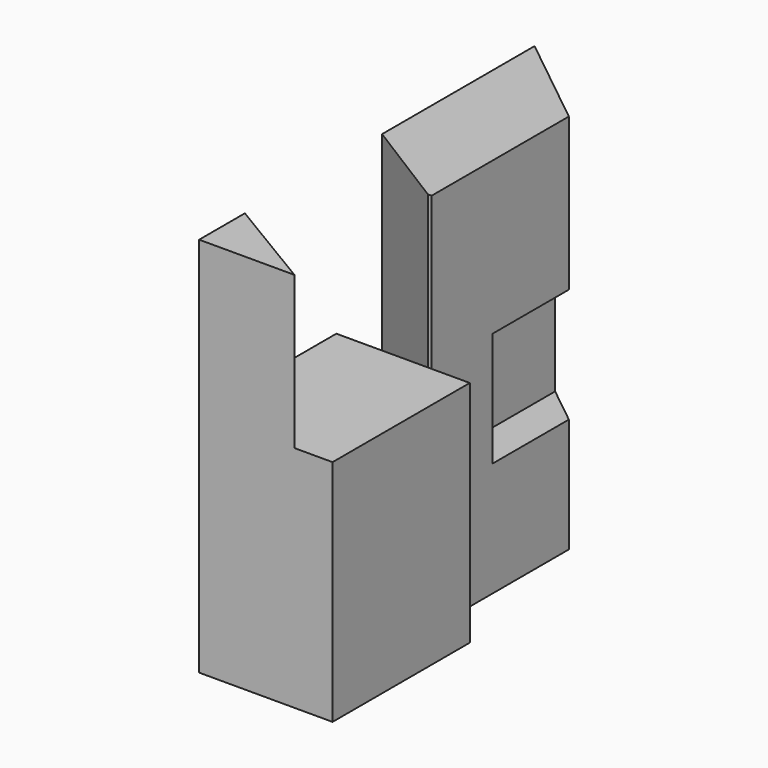
from build123d import *

# Parameters (mm, degrees)
F0_W      = 35
F0_H      = 60
F1_DEPTH  = 45
F2_W      = 25
F2_H      = 40
F2_H_2    = 60
F3_DEPTH  = 65
F4_W      = 10
F4_H      = 30
F5_DEPTH  = 45
F7_DEPTH  = 100
F9_DEPTH  = 40
F11_DEPTH = 85


with BuildPart() as f1:
    # F0 (on Front) → F1 (new body)
    with BuildSketch(Plane.XZ):
        with Locations((-17.5, 30)):
            Rectangle(F0_W, F0_H)
    extrude(amount=F1_DEPTH)

    # F2 (on face) → F3 (join)
    with BuildSketch(Plane(origin=(0, 0, 0), x_dir=(-1, 0, 0), z_dir=(0, 1, 0))):
        with Locations((22.5, 80)):
            Rectangle(F2_W, F2_H)
        with Locations((22.5, 30)):
            Rectangle(F2_W, F2_H_2)
    extrude(amount=F3_DEPTH)

    # F4 (on face) → F5 (cut)
    with BuildSketch(Plane(origin=(0, 65, 0), x_dir=(-1, 0, 0), z_dir=(0, 1, 0))):
        with Locations((15, 45)):
            Rectangle(F4_W, F4_H)
    extrude(amount=-F5_DEPTH, mode=Mode.SUBTRACT)

    # F6 (on face) → F7 (cut)
    with BuildSketch(Plane.XY.offset(100)):
        Polygon((-10, 45), (-10, 65), (-35, 65), align=None)
    extrude(amount=-F7_DEPTH, mode=Mode.SUBTRACT)

    # F8 (on face) → F9 (join)
    with BuildSketch(Plane.XY.offset(60)):
        Polygon((-35, -30), (-35, -45), (-10, -45), align=None)
    extrude(amount=F9_DEPTH)

    # F10 (on face) → F11 (cut)
    with BuildSketch(Plane.XY.offset(100)):
        Polygon((-35, 15), (-35, 0), (-11, 0), align=None)
    extrude(amount=-F11_DEPTH, mode=Mode.SUBTRACT)


solid = f1.part
